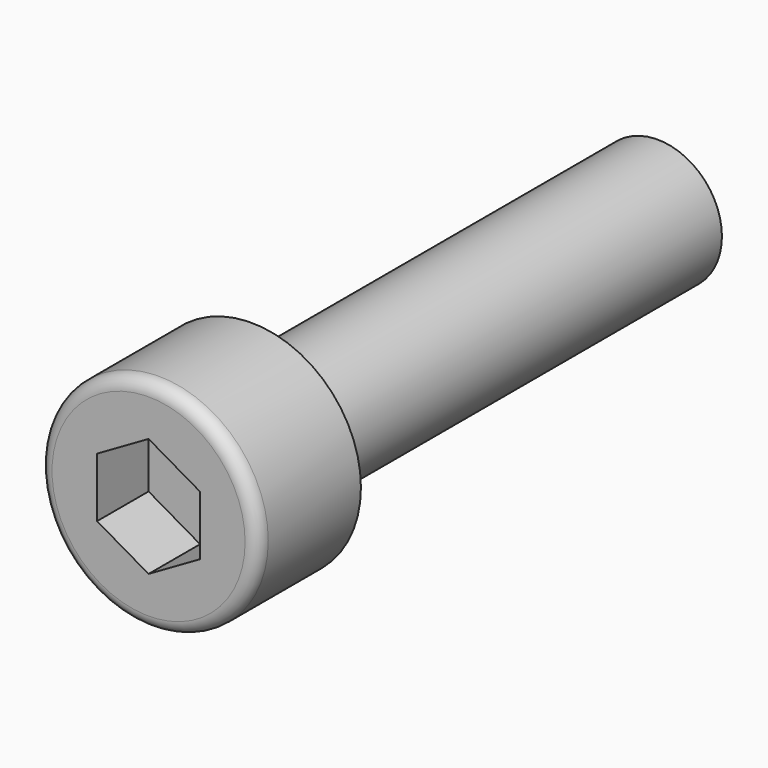
from build123d import *

# Parameters (mm, degrees)
POCKET_DEPTH = 2.5


with BuildPart() as part:
    # Sketch → Revolution (revolve)
    with BuildSketch(Plane.XY):
        with BuildLine():
            Line((2.5, 0), (4.25, 0))
            Line((4.25, 0), (4.25, -4.5))
            ThreePointArc((3.75, -5), (4.103553, -4.853553), (4.25, -4.5))
            Line((3.75, -5), (0, -5))
            Line((0, -5), (0, 20))
            Line((0, 20), (2.01, 20))
            Line((2.01, 20), (2.5, 19.717098))
            Line((2.5, 19.717098), (2.5, 0))
        make_face()
    revolve(axis=Axis((0, 0, 0), (0, 1, 0)))

    # Sketch001 → Pocket (cut)
    with BuildSketch(Plane.XZ.offset(5)):
        Polygon((-2, 1.154701), (-2, -1.154701), (0, -2.309401), (2, -1.154701), (2, 1.154701), (0, 2.309401), align=None)
    extrude(amount=-POCKET_DEPTH, mode=Mode.SUBTRACT)


solid = part.part
